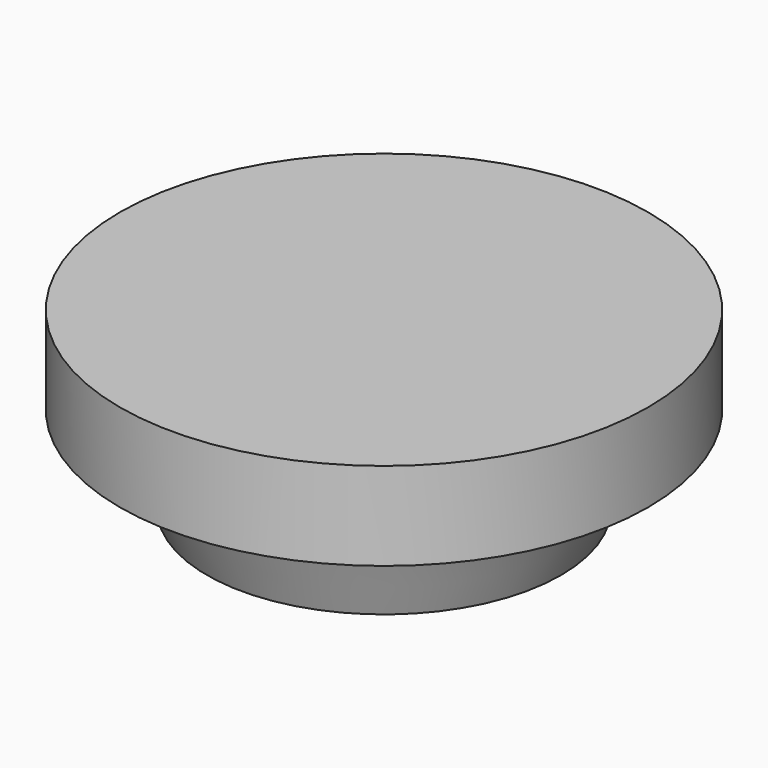
from build123d import *

# Parameters (mm, degrees)
F0_R     = 6
F1_DEPTH = 2
F2_R     = 4.75
F3_DEPTH = 2
F3_TAPER = 20


with BuildPart() as f1:
    # F0 (on Top) → F1 (new body)
    with BuildSketch(Plane.XY):
        Circle(F0_R)
    extrude(amount=F1_DEPTH)

    # F2 (on Top) → F3 (join)
    with BuildSketch(Plane.XY):
        Circle(F2_R)
    extrude(amount=-F3_DEPTH, taper=F3_TAPER)


solid = f1.part
